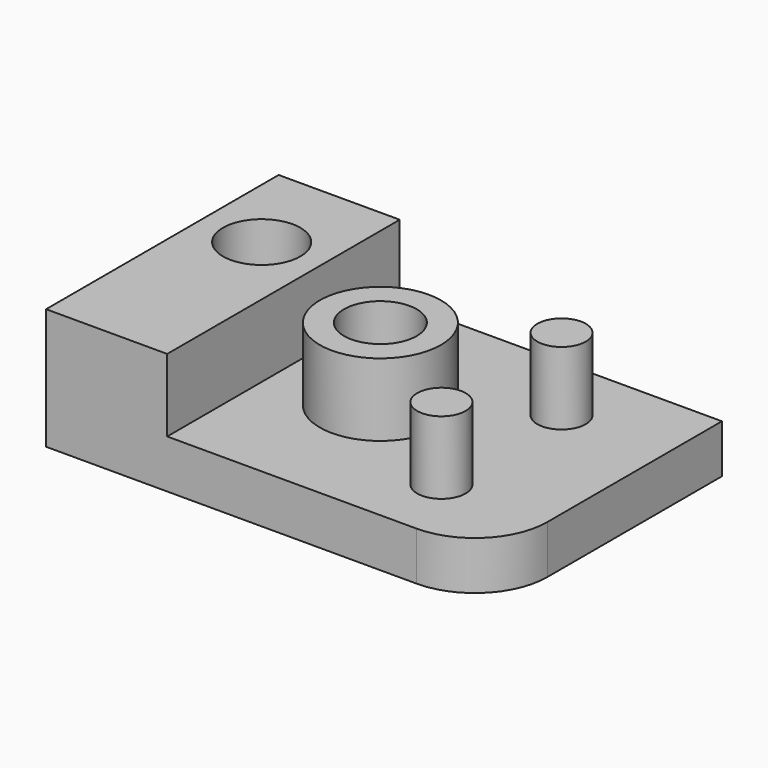
from build123d import *

# Parameters (mm, degrees)
SKETCH_W        = 18.3
SKETCH_H        = 12
SKETCH_R        = 1.5
SKETCH_R_2      = 1.6
PAD_DEPTH       = 5
SKETCH001_W     = 14
SKETCH001_H     = 12
SKETCH001_R     = 2.5
SKETCH001_R_2   = 1
POCKET_DEPTH    = 3.001
SKETCH002_R     = 3
POCKET001_DEPTH = 1
FILLET_R        = 3


with BuildPart() as part:
    # Sketch → Pad (new body)
    with BuildSketch(Plane.XY):
        with Locations((9.15, 6)):
            Rectangle(SKETCH_W, SKETCH_H)
        with Locations((9, 6)):
            Circle(SKETCH_R, mode=Mode.SUBTRACT)
        with Locations((2.5, 8)):
            Circle(SKETCH_R_2, mode=Mode.SUBTRACT)
    extrude(amount=PAD_DEPTH)

    # Sketch001 (on DatumPlane) → Pocket (cut, through all)
    with BuildSketch(Plane.XY.offset(2)):
        with Locations((12, 6)):
            Rectangle(SKETCH001_W, SKETCH001_H)
        with Locations((9, 6)):
            Circle(SKETCH001_R, mode=Mode.SUBTRACT)
        with Locations((14, 9.1)):
            Circle(SKETCH001_R_2, mode=Mode.SUBTRACT)
        with Locations((14, 2.9)):
            Circle(SKETCH001_R_2, mode=Mode.SUBTRACT)
    extrude(amount=POCKET_DEPTH, mode=Mode.SUBTRACT)

    # Sketch002 → Pocket001 (cut)
    with BuildSketch(Plane.XY):
        with Locations((2.5, 8)):
            Circle(SKETCH002_R)
        with Locations((9, 6)):
            Circle(SKETCH002_R)
    extrude(amount=POCKET001_DEPTH, mode=Mode.SUBTRACT)

    # Fillet
    fillet_edges = [part.edges().sort_by_distance(p)[0] for p in [
        (18.3, 0, 1),
    ]]
    fillet(fillet_edges, radius=FILLET_R)


with BuildPart() as part_1:
    # Body placement: moved
    add(part.part.moved(Location((-12, 0, 6.3))))


solid = part_1.part
